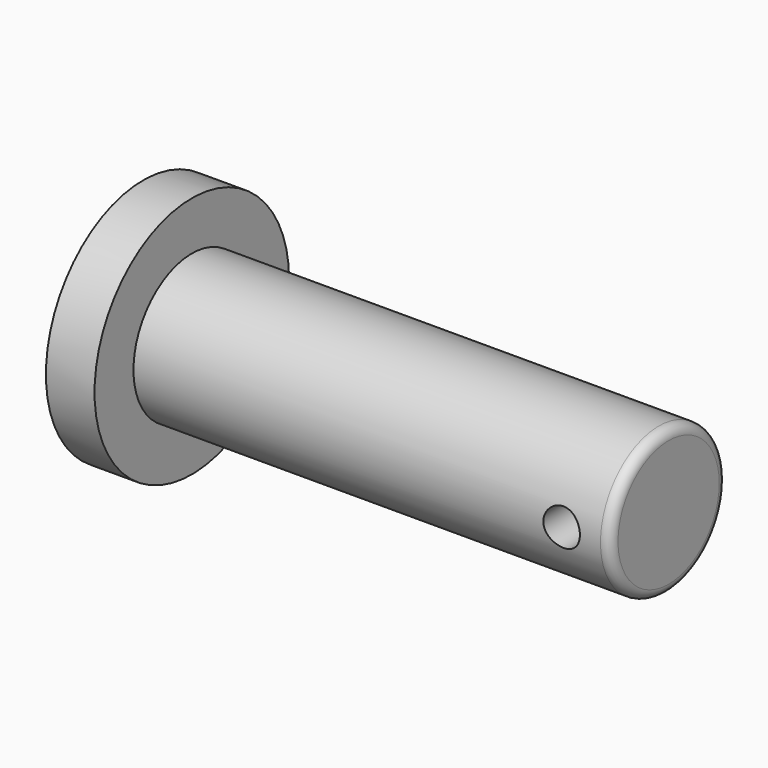
from build123d import *

# Parameters (mm, degrees)
F0_R          = 15.875
F0_R_2        = 9.525
F1_DEPTH      = 6.35
F2_DEPTH      = 68.58
F3_R          = 2.3876
F4_DEPTH      = 15.876
F4_DEPTH_BACK = 25.4
F5_R          = 1.27


with BuildPart() as f1:
    # F0 (on Right) → F1 (new body)
    with BuildSketch(Plane.YZ):
        Circle(F0_R)
        Circle(F0_R_2, mode=Mode.SUBTRACT)
    extrude(amount=F1_DEPTH)

    # F0 (on Right) → F2 (join)
    with BuildSketch(Plane.YZ):
        Circle(F0_R_2)
    extrude(amount=F2_DEPTH)

    # F3 (on Front) → F4 (cut, two sides)
    with BuildSketch(Plane.XZ) as f4_sk:
        with Locations((62.23, 0)):
            Circle(F3_R)
    extrude(amount=-F4_DEPTH, mode=Mode.SUBTRACT)
    extrude(f4_sk.sketch, amount=F4_DEPTH_BACK, mode=Mode.SUBTRACT)

    # F5
    f5_edges = [f1.edges().sort_by_distance(p)[0] for p in [
        (68.58, -9.525, 0),
    ]]
    fillet(f5_edges, radius=F5_R)


solid = f1.part
